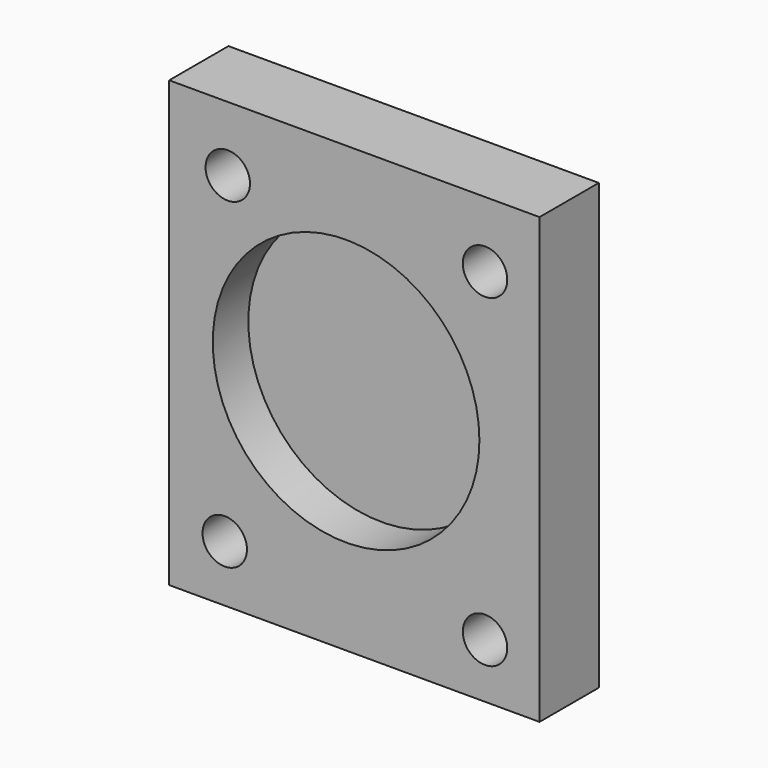
from build123d import *

# Parameters (mm, degrees)
F0_W     = 25
F0_H     = 30
F1_DEPTH = 5
F2_R     = 1.5
F3_DEPTH = 25
F4_R     = 9
F5_DEPTH = 3


with BuildPart() as f1:
    # F0 (on Front) → F1 (new body)
    with BuildSketch(Plane.XZ):
        with Locations((0.55913, 2.599103)):
            Rectangle(F0_W, F0_H)
    extrude(amount=F1_DEPTH)

    # F2 (on face) → F3 (cut)
    with BuildSketch(Plane.XZ.offset(5)):
        with Locations((-7.987171, 13.230707)):
            Circle(F2_R)
        with Locations((9.378917, 13.162337)):
            Circle(F2_R)
        with Locations((-8.192283, -8.579459)):
            Circle(F2_R)
        with Locations((9.378917, -8.716201)):
            Circle(F2_R)
    extrude(amount=-F3_DEPTH, mode=Mode.SUBTRACT)

    # F4 (on face) → F5 (cut)
    with BuildSketch(Plane.XZ.offset(5)):
        with Locations((0, 3.009328)):
            Circle(F4_R)
    extrude(amount=-F5_DEPTH, mode=Mode.SUBTRACT)


solid = f1.part
